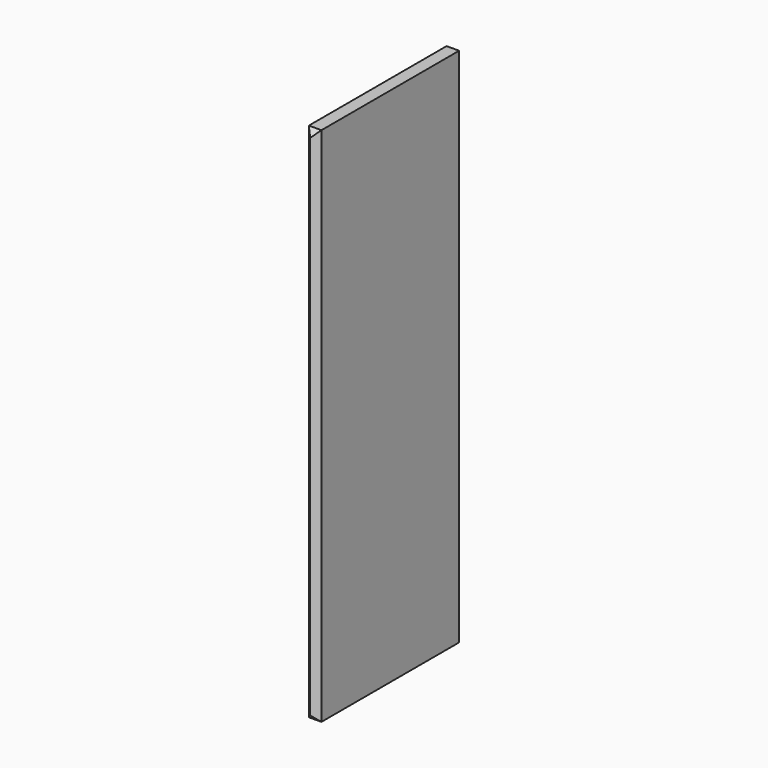
from build123d import *

# Parameters (mm, degrees)
F1_START = -55
F1_DEPTH = 415
F2_SIZE2 = 14.5
F2_SIZE  = 14.5


with BuildPart() as f1:
    # F0 (on Front) → F1 (new body)
    with BuildSketch(Plane.XZ.offset(F1_START)):
        Polygon((-4.6, -740), (-4.6, -827), (24.6, -827), (24.6, -740), (24.6, -725), (24.6, -365), (24.6, -350), (24.6, 10), (24.6, 25), (24.6, 385), (-4.6, 385), (-4.6, 25), (-4.6, 10), (-4.6, -350), (-4.6, -365), (-4.6, -725), align=None)
    extrude(amount=-F1_DEPTH)

    # F2
    f2_edges = [f1.edges().sort_by_distance(p)[0] for p in [
        (-4.6, 55, -221),
        (10, 55, -827),
        (24.6, 55, -221),
        (10, 55, 385),
    ]]
    chamfer(f2_edges, length=F2_SIZE, length2=F2_SIZE2)


solid = f1.part
